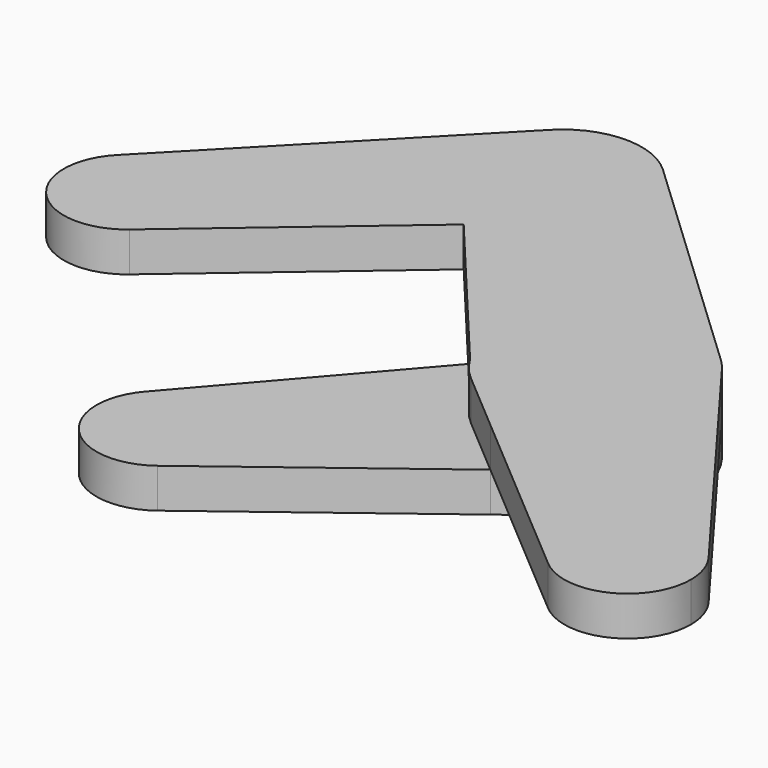
from build123d import *

# Parameters (mm, degrees)
F1_DEPTH = 5
F2_DEPTH = 5


with BuildPart() as f1:
    # F0 (on Top) → F1 (new body)
    with BuildSketch(Plane.XY):
        with BuildLine():
            Line((-23.6646297587, 53.0488538636), (-17.1804372047, 45.2985886631))
            Line((-17.1804372047, 45.2985886631), (-9.4983322642, 51.863390826))
            ThreePointArc((-9.4983322642, 51.863390826), (-16.8288140389, 49.5004897049), (-23.6646297587, 53.0488538636))
        make_face()
        with BuildLine():
            ThreePointArc((-53.2043166994, 35.5152454027), (-44.4583020958, 37.3537774602), (-39.4662413724, 29.9407955158))
            ThreePointArc((-39.4662413724, 29.9407955158), (-40.2006342346, 26.5925194043), (-42.2689796022, 23.858980812))
            Line((-42.2689796022, 23.858980812), (-17.1804372047, 45.2985886631))
            Line((-17.1804372047, 45.2985886631), (-23.6646297587, 53.0488538636))
            ThreePointArc((-23.6646297587, 53.0488538636), (-25.9880193698, 59.8368123683), (-23.1675036357, 66.4337215644))
            Line((-23.1675036357, 66.4337215644), (-53.2043166994, 35.5152454027))
        make_face()
        with BuildLine():
            ThreePointArc((-42.2689796022, 23.858980812), (-40.2006342346, 26.5925194043), (-39.4662413724, 29.9407955158))
            ThreePointArc((-39.4662413724, 29.9407955158), (-44.4583020958, 37.3537774602), (-53.2043166994, 35.5152454027))
            ThreePointArc((-53.2043166994, 35.5152454027), (-53.3006433022, 24.467245103), (-42.2689796022, 23.858980812))
        make_face()
        with BuildLine():
            ThreePointArc((-9.1320828248, 66.7390085266), (-16.2123698397, 69.4632944758), (-23.1675036357, 66.4337215644))
            ThreePointArc((-23.1675036357, 66.4337215644), (-25.9880193698, 59.8368123683), (-23.6646297587, 53.0488538636))
            ThreePointArc((-23.6646297587, 53.0488538636), (-16.8288140389, 49.5004897049), (-9.4983322642, 51.863390826))
            ThreePointArc((-9.4983322642, 51.863390826), (-6.9129005547, 55.2803140664), (-5.994909477, 59.4656592058))
            ThreePointArc((-5.994909477, 59.4656592058), (-6.8126367049, 63.4261978989), (-9.1320828248, 66.7390085266))
        make_face()
        with BuildLine():
            Line((-9.4983322642, 51.863390826), (-17.1804372047, 45.2985886631))
            Line((-17.1804372047, 45.2985886631), (-4.2026234708, 29.7867886478))
            Line((-4.2026234708, 29.7867886478), (2.6376370986, 37.6995618553))
            ThreePointArc((2.6376370986, 37.6995618553), (11.4593372267, 42.0087373587), (20.6726131861, 38.616550341))
            Line((20.6726131861, 38.616550341), (-9.1320828248, 66.7390085266))
            ThreePointArc((-9.1320828248, 66.7390085266), (-6.8126367049, 63.4261978989), (-5.994909477, 59.4656592058))
            ThreePointArc((-5.994909477, 59.4656592058), (-6.9129005547, 55.2803140664), (-9.4983322642, 51.863390826))
        make_face()
        with BuildLine():
            ThreePointArc((22.1044885316, 37.0109653755), (21.4231562838, 37.8446192924), (20.6726131861, 38.616550341))
            ThreePointArc((20.6726131861, 38.616550341), (11.4593372267, 42.0087373587), (2.6376370986, 37.6995618553))
            ThreePointArc((2.6376370986, 37.6995618553), (-0.3549106539, 30.6529749047), (1.3221861999, 23.1832308766))
            ThreePointArc((1.3221861999, 23.1832308766), (2.5213544186, 21.4866470088), (3.9849688708, 20.012118619))
            ThreePointArc((3.9849688708, 20.012118619), (11.7385911797, 17.0299196009), (19.6492249827, 19.5664610902))
            ThreePointArc((19.6492249827, 19.5664610902), (23.2898226756, 23.965606271), (24.5940798709, 29.52486369))
            ThreePointArc((24.5940798709, 29.52486369), (23.9553637024, 33.4694734135), (22.1044885316, 37.0109653755))
        make_face()
        with BuildLine():
            Line((2.6376370986, 37.6995618553), (-4.2026234708, 29.7867886478))
            Line((-4.2026234708, 29.7867886478), (1.3221861999, 23.1832308766))
            ThreePointArc((1.3221861999, 23.1832308766), (-0.3549106539, 30.6529749047), (2.6376370986, 37.6995618553))
        make_face()
        with BuildLine():
            ThreePointArc((19.6492249827, 19.5664610902), (11.7385911797, 17.0299196009), (3.9849688708, 20.012118619))
            Line((3.9849688708, 20.012118619), (11.6378344152, 13.4884563422))
            Line((11.6378344152, 13.4884563422), (19.6492249827, 19.5664610902))
        make_face()
        with BuildLine():
            Line((46.1995238743, 4.7911050787), (22.1044885316, 37.0109653755))
            ThreePointArc((22.1044885316, 37.0109653755), (23.9553637024, 33.4694734135), (24.5940798709, 29.52486369))
            ThreePointArc((24.5940798709, 29.52486369), (23.2898226756, 23.965606271), (19.6492249827, 19.5664610902))
            Line((19.6492249827, 19.5664610902), (11.6378344152, 13.4884563422))
            Line((11.6378344152, 13.4884563422), (34.6030312914, -6.0881568455))
            ThreePointArc((34.6030312914, -6.0881568455), (34.3193119186, 5.8344019298), (46.1995238743, 4.7911050787))
        make_face()
        with BuildLine():
            ThreePointArc((47.7928623315, 0), (47.3840839836, 2.524550223), (46.1995238743, 4.7911050787))
            ThreePointArc((46.1995238743, 4.7911050787), (34.3193119186, 5.8344019298), (34.6030312914, -6.0881568455))
            ThreePointArc((34.6030312914, -6.0881568455), (43.1455740458, -7.2635613965), (47.7928623315, 0))
        make_face()
    extrude(amount=F1_DEPTH)

    # F0 (on Top) → F2 (join)
    with BuildSketch(Plane.XY):
        with BuildLine():
            ThreePointArc((22.1044885316, 37.0109653755), (21.4231562838, 37.8446192924), (20.6726131861, 38.616550341))
            ThreePointArc((20.6726131861, 38.616550341), (11.4593372267, 42.0087373587), (2.6376370986, 37.6995618553))
            ThreePointArc((2.6376370986, 37.6995618553), (-0.3549106539, 30.6529749047), (1.3221861999, 23.1832308766))
            ThreePointArc((1.3221861999, 23.1832308766), (2.5213544186, 21.4866470088), (3.9849688708, 20.012118619))
            ThreePointArc((3.9849688708, 20.012118619), (11.7385911797, 17.0299196009), (19.6492249827, 19.5664610902))
            ThreePointArc((19.6492249827, 19.5664610902), (23.2898226756, 23.965606271), (24.5940798709, 29.52486369))
            ThreePointArc((24.5940798709, 29.52486369), (23.9553637024, 33.4694734135), (22.1044885316, 37.0109653755))
        make_face()
        with BuildLine():
            Line((2.6376370986, 37.6995618553), (-4.2026234708, 29.7867886478))
            Line((-4.2026234708, 29.7867886478), (1.3221861999, 23.1832308766))
            ThreePointArc((1.3221861999, 23.1832308766), (-0.3549106539, 30.6529749047), (2.6376370986, 37.6995618553))
        make_face()
        with BuildLine():
            ThreePointArc((19.6492249827, 19.5664610902), (11.7385911797, 17.0299196009), (3.9849688708, 20.012118619))
            Line((3.9849688708, 20.012118619), (11.6378344152, 13.4884563422))
            Line((11.6378344152, 13.4884563422), (19.6492249827, 19.5664610902))
        make_face()
        with BuildLine():
            Line((1.3221861999, 23.1832308766), (-4.2026234708, 29.7867886478))
            Line((-4.2026234708, 29.7867886478), (-25.4293753988, 5.2318068258))
            ThreePointArc((-25.4293753988, 5.2318068258), (-16.5859250098, 7.4972323892), (-11.3772520245, 0))
            ThreePointArc((-11.3772520245, 0), (-12.2119766295, -3.5579247482), (-14.541959153, -6.3733776639))
            Line((-14.541959153, -6.3733776639), (11.6378344152, 13.4884563422))
            Line((11.6378344152, 13.4884563422), (3.9849688708, 20.012118619))
            ThreePointArc((3.9849688708, 20.012118619), (2.5213544186, 21.4866470088), (1.3221861999, 23.1832308766))
        make_face()
        with BuildLine():
            ThreePointArc((-11.3772520245, 0), (-16.5859250098, 7.4972323892), (-25.4293753988, 5.2318068258))
            ThreePointArc((-25.4293753988, 5.2318068258), (-25.2116539543, -5.4735504128), (-14.541959153, -6.3733776639))
            ThreePointArc((-14.541959153, -6.3733776639), (-12.2119766295, -3.5579247482), (-11.3772520245, 0))
        make_face()
    extrude(amount=-F2_DEPTH)


solid = f1.part
